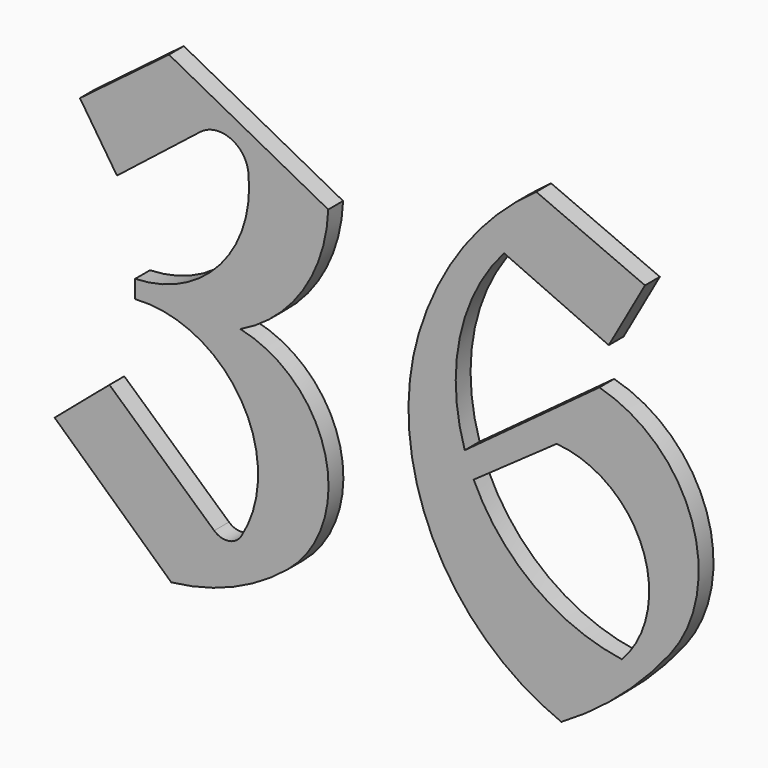
from build123d import *

# Parameters (mm, degrees)
F1_DEPTH = 5


with BuildPart() as f1:
    # F0 (on Front) → F1 (new body)
    with BuildSketch(Plane.XZ):
        with BuildLine():
            Line((-1.883493, 42.964003), (29.568481, 14.115918))
            ThreePointArc((29.568481, 14.115918), (46.248339, 18.471188), (60.980766, 27.423375))
            ThreePointArc((60.980766, 27.423375), (71.096461, 57.844364), (48.191711, 80.275063))
            ThreePointArc((48.191711, 80.275063), (65.051637, 95.003349), (71.861893, 116.329387))
            Line((71.861893, 116.329387), (28.943224, 139.119683))
            Line((28.943224, 139.119683), (4.943285, 120.999647))
            Line((4.943285, 120.999647), (14.926884, 105.857904))
            Line((14.926884, 105.857904), (37.428994, 123.571843))
            ThreePointArc((37.428994, 123.571843), (45.460184, 124.668346), (50.327365, 118.186612))
            ThreePointArc((50.327365, 118.186612), (42.79968, 93.891448), (19.827369, 82.97385))
            Line((19.827369, 82.97385), (19.827369, 78.151017))
            ThreePointArc((19.827369, 78.151017), (48.444152, 63.406504), (48.432022, 31.214567))
            ThreePointArc((48.432022, 31.214567), (45.027626, 28.965632), (41.122623, 30.148242))
            Line((41.122623, 30.148242), (12.899355, 55.558179))
            Line((12.899355, 55.558179), (-1.883493, 42.964003))
        make_face()
        with BuildLine():
            ThreePointArc((96.272329, 94.900303), (99.986545, 47.575429), (134.694293, 15.190074))
            ThreePointArc((134.694293, 15.190074), (150.558007, 26.652755), (164.024447, 40.855061))
            ThreePointArc((164.024447, 40.855061), (169.84723, 74.513596), (144.932032, 97.880982))
            Line((144.932032, 97.880982), (108.656049, 71.188079))
            ThreePointArc((108.656049, 71.188079), (107.344614, 97.685075), (119.248971, 121.393658))
            Line((119.248971, 121.393658), (147.464171, 108.732983))
            Line((147.464171, 108.732983), (157.230973, 126.096189))
            Line((157.230973, 126.096189), (127.930567, 138.756856))
            ThreePointArc((127.930567, 138.756856), (108.419305, 119.486566), (96.272329, 94.900303))
        make_face()
        with BuildLine():
            ThreePointArc((133.424263, 80.75646), (156.54761, 63.594541), (151.001637, 35.337456))
            ThreePointArc((151.001637, 35.337456), (127.266228, 45.091224), (111.064483, 64.991199))
            Line((111.064483, 64.991199), (133.424263, 80.75646))
        make_face(mode=Mode.SUBTRACT)
    extrude(amount=F1_DEPTH)


solid = f1.part
